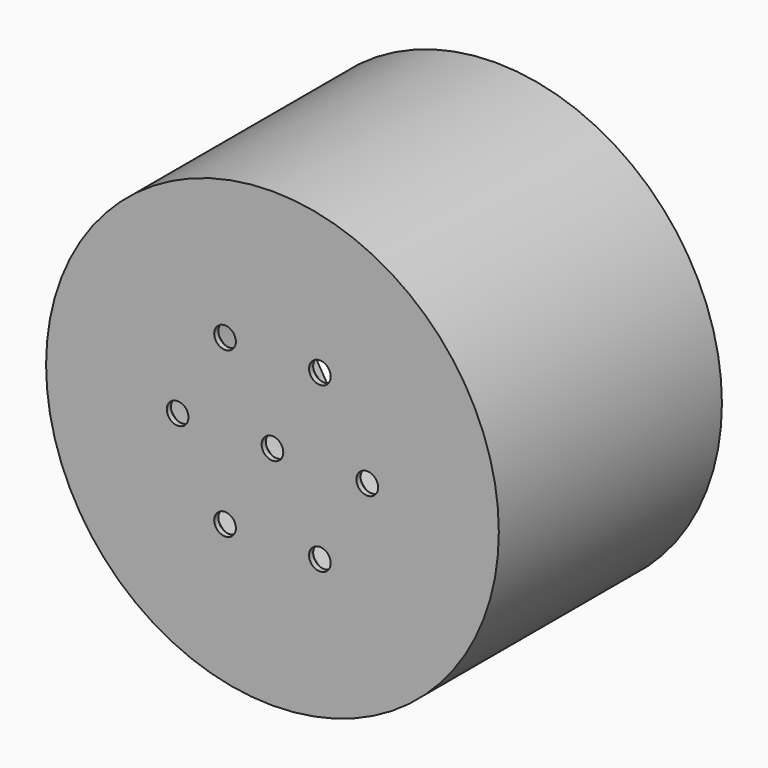
from build123d import *

# Parameters (mm, degrees)
F3_D           = 6.6
F3_CSINK_D     = 13.44
F3_CSINK_ANGLE = 90


with BuildPart() as f1:
    # F0 (on Top) → F1 (revolve)
    with BuildSketch(Plane.XY):
        Polygon((-69, 5), (-69, -75), (-69, -80), (-61.5, -80), (0, -80), (0, -75), (-61.5, -75), (-61.5, 5), align=None)
    revolve(axis=Axis((0, -39.125, 0), (0, -1, 0)))

    # F3 (through all)
    with Locations(Plane(origin=(0, -75, 0), x_dir=(-1, 0, 0), z_dir=(0, 1, 0))):
        with Locations((14.45, 25.0281341694), (0, 0), (28.9, 0), (14.45, -25.0281341694), (-14.45, -25.0281341694), (-28.9, 0), (-14.45, 25.0281341694)):
            CounterSinkHole(F3_D / 2, F3_CSINK_D / 2, counter_sink_angle=F3_CSINK_ANGLE)


solid = f1.part
